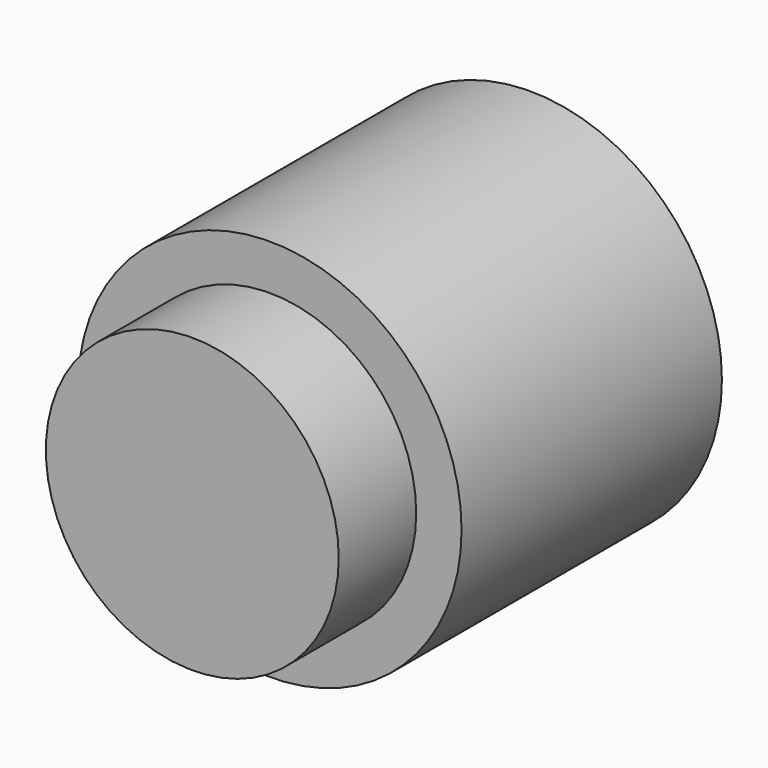
from build123d import *

# Parameters (mm, degrees)
SKETCH015_R             = 4.8006
PAD008_DEPTH            = 3.175
SKETCH016_R             = 6.2865
PAD009_DEPTH            = 10.668
SKETCH017_R             = 2.54
POCKET006_DEPTH         = 1.524
BODY002_PLACEMENT_ANGLE = 90


with BuildPart() as part:
    # Sketch015 → Pad008 (new body)
    with BuildSketch(Plane.XY):
        Circle(SKETCH015_R)
    extrude(amount=PAD008_DEPTH)

    # Sketch016 (on Face2 of Pad008) → Pad009 (join)
    with BuildSketch(Plane(origin=(0, 0, 0), x_dir=(1, 0, 0), z_dir=(0, 0, -1))):
        Circle(SKETCH016_R)
    extrude(amount=PAD009_DEPTH)

    # Sketch017 (on Face3 of Pad009) → Pocket006 (cut)
    with BuildSketch(Plane(origin=(0, 0, -10.668), x_dir=(1, 0, 0), z_dir=(0, 0, -1))):
        Circle(SKETCH017_R)
    extrude(amount=-POCKET006_DEPTH, mode=Mode.SUBTRACT)


with BuildPart() as part_1:
    # Body002 placement: moved
    add(part.part.moved(Location((74.609706, 0, 5.728716))).rotate(Axis((74.609706, 0, 5.728716), (1, 0, 0)), BODY002_PLACEMENT_ANGLE))


solid = part_1.part
